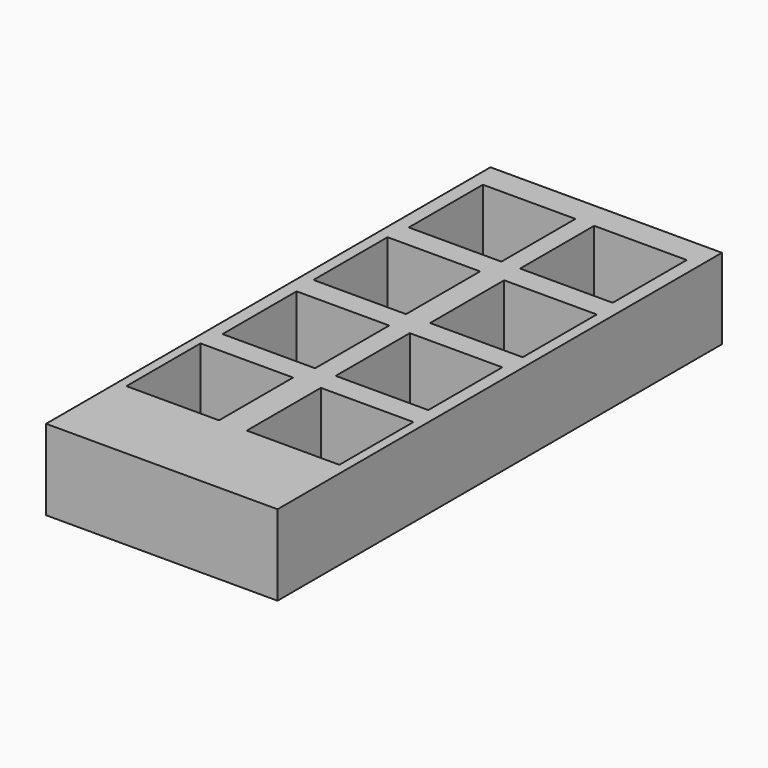
from build123d import *

# Parameters (mm, degrees)
F0_W     = 63.5
F0_H     = 152.4
F0_W_2   = 25.4
F0_H_2   = 25.4
F1_DEPTH = 22.098


with BuildPart() as f1:
    # F0 (on Top) → F1 (new body)
    with BuildSketch(Plane.XY):
        Rectangle(F0_W, F0_H)
        with Locations((-16.51, -39.116)):
            Rectangle(F0_W_2, F0_H_2, mode=Mode.SUBTRACT)
        with Locations((-15.523883, -7.395885)):
            Rectangle(F0_W_2, F0_H_2, mode=Mode.SUBTRACT)
        with Locations((16.51, -39.116)):
            Rectangle(F0_W_2, F0_H_2, mode=Mode.SUBTRACT)
        with Locations((15.523883, -7.395885)):
            Rectangle(F0_W_2, F0_H_2, mode=Mode.SUBTRACT)
        with Locations((-16.002, 24.384)):
            Rectangle(F0_W_2, F0_H_2, mode=Mode.SUBTRACT)
        with Locations((-15.269883, 56.163885)):
            Rectangle(F0_W_2, F0_H_2, mode=Mode.SUBTRACT)
        with Locations((16.002, 24.384)):
            Rectangle(F0_W_2, F0_H_2, mode=Mode.SUBTRACT)
        with Locations((15.269883, 56.163885)):
            Rectangle(F0_W_2, F0_H_2, mode=Mode.SUBTRACT)
    extrude(amount=F1_DEPTH)


solid = f1.part
